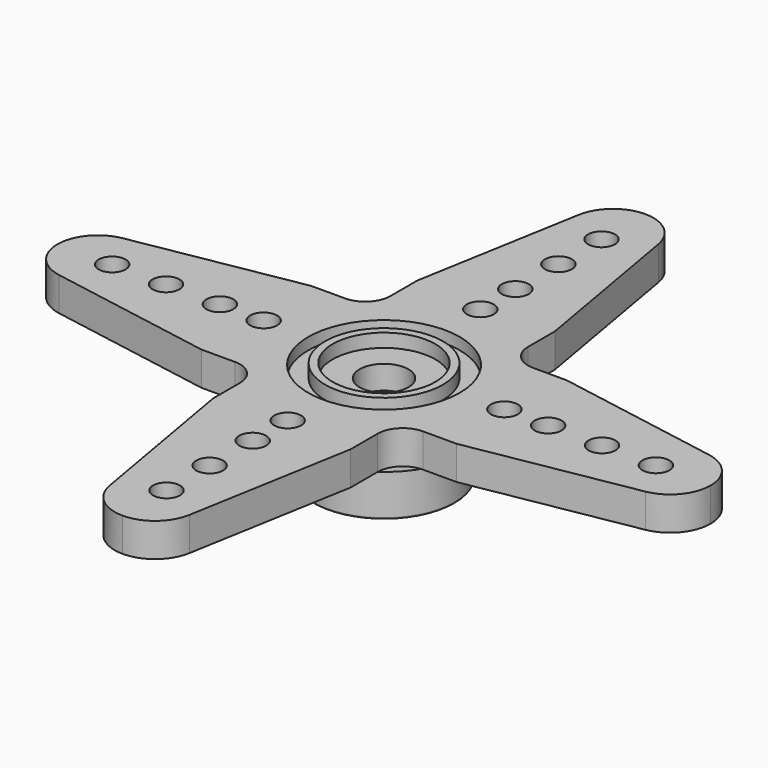
from build123d import *

# Parameters (mm, degrees)
PAD_DEPTH          = 2
SKETCH001_R        = 4.5
POCKET_DEPTH       = 0.7
SKETCH002_R        = 3.5
PAD001_DEPTH       = 0.8
SKETCH003_R        = 3.05
POCKET001_DEPTH    = 0.8
SKETCH004_R        = 5
PAD002_DEPTH       = 1
SKETCH005_R        = 4.2
PAD003_DEPTH       = 2.9
SKETCH006_R        = 2.95
POCKET002_DEPTH    = 3.8
SKETCH007_R        = 1.45
POCKET003_DEPTH    = 5.201
SKETCH008_R        = 0.8
POCKET004_DEPTH    = 116.298101
POLARPATTERN_COUNT = 4
CHAMFER_SIZE       = 0.4
CHAMFER001_SIZE    = 0.3
FILLET_R           = 0.1


with BuildPart() as horn_top_left_quarter:
    # Sketch → Pad (new body)
    with BuildSketch(Plane.XY):
        with BuildLine():
            Line((0, 0), (0, 19.4))
            ThreePointArc((0, 19.4), (-1.543669, 18.837685), (-2.363981, 17.414237))
            Line((-4.086144, 7.586132), (-2.363981, 17.414237))
            Line((-4.086144, 5.586132), (-4.086144, 7.586132))
            ThreePointArc((-5.586136, 4.086144), (-4.525485, 4.525482), (-4.086144, 5.586132))
            Line((-5.586136, 4.086144), (-7.586136, 4.086144))
            Line((-17.414238, 2.363981), (-7.586136, 4.086144))
            ThreePointArc((-17.414238, 2.363981), (-18.837685, 1.543669), (-19.4, 0))
            Line((-19.4, 0), (0, 0))
        make_face()
    extrude(amount=PAD_DEPTH)


with BuildPart() as upper_half_horn:
    # Part__Mirroring: instance of horn-top-left-quarter
    add(horn_top_left_quarter.part.mirror(Plane(origin=(0, 0, 0), x_dir=(0, -1, 0), z_dir=(1, 0, 0))))

    # Fusion: union horn-top-left-quarter
    add(horn_top_left_quarter.part)


with BuildPart() as horn_final:
    # Part__Mirroring001: instance of Upper-half-horn
    add(upper_half_horn.part.mirror(Plane(origin=(0, 0, 0), x_dir=(1, 0, 0), z_dir=(0, 1, 0))))

    # Fusion001: union Upper-half-horn
    add(upper_half_horn.part)

    # Sketch001 (on Face24 of Fusion001) → Pocket (cut)
    with BuildSketch(Plane.XY.offset(2)):
        Circle(SKETCH001_R)
    extrude(amount=-POCKET_DEPTH, mode=Mode.SUBTRACT)

    # Sketch002 (on Face28 of Pocket) → Pad001 (new body)
    with BuildSketch(Plane.XY.offset(1.3)):
        Circle(SKETCH002_R)
    extrude(amount=PAD001_DEPTH)

    # Sketch003 (on Face30 of Pad001) → Pocket001 (cut)
    with BuildSketch(Plane.XY.offset(2.1)):
        Circle(SKETCH003_R)
    extrude(amount=-POCKET001_DEPTH, mode=Mode.SUBTRACT)

    # Sketch004 (on Face4 of Pocket001) → Pad002 (new body)
    with BuildSketch(Plane(origin=(0, 0, 0), x_dir=(1, 0, 0), z_dir=(0, 0, -1))):
        Circle(SKETCH004_R)
    extrude(amount=PAD002_DEPTH)

    # Sketch005 (on Face29 of Pad002) → Pad003 (new body)
    with BuildSketch(Plane(origin=(0, 0, -1), x_dir=(1, 0, 0), z_dir=(0, 0, -1))):
        Circle(SKETCH005_R)
    extrude(amount=PAD003_DEPTH)

    # Sketch006 (on Face33 of Pad003) → Pocket002 (cut)
    with BuildSketch(Plane(origin=(0, 0, -3.9), x_dir=(1, 0, 0), z_dir=(0, 0, -1))):
        Circle(SKETCH006_R)
    extrude(amount=-POCKET002_DEPTH, mode=Mode.SUBTRACT)

    # Sketch007 (on Face38 of Pocket002) → Pocket003 (cut, through all)
    with BuildSketch(Plane.XY.offset(1.3)):
        Circle(SKETCH007_R)
    extrude(amount=-POCKET003_DEPTH, mode=Mode.SUBTRACT)

    # Sketch008 (on Face5 of Pocket003) → Pocket004 (cut, through all)
    with BuildSketch(Plane.XY.offset(2)):
        with Locations((0, 16.15)):
            Circle(SKETCH008_R)
        with Locations((0, 12.95)):
            Circle(SKETCH008_R)
        with Locations((0, 9.75)):
            Circle(SKETCH008_R)
        with Locations((0, 7.15)):
            Circle(SKETCH008_R)
    pocket004 = extrude(amount=-POCKET004_DEPTH, mode=Mode.SUBTRACT)

    # PolarPattern: Pocket004 ×4 about axis
    polarpattern_axis = Axis((0, 0, 2), (0, 0, 1))
    for i in range(1, POLARPATTERN_COUNT):
        add(pocket004.rotate(polarpattern_axis, i * 360 / POLARPATTERN_COUNT), mode=Mode.SUBTRACT)

    # Chamfer
    chamfer_edges = [horn_final.edges().sort_by_distance(p)[0] for p in [
        (-5, 0, 0),
    ]]
    chamfer(chamfer_edges, length=CHAMFER_SIZE)

    # Chamfer001
    chamfer001_edges = [horn_final.edges().sort_by_distance(p)[0] for p in [
        (-4.2, 0, -1),
    ]]
    chamfer(chamfer001_edges, length=CHAMFER001_SIZE)

    # Fillet
    fillet_edges = [horn_final.edges().sort_by_distance(p)[0] for p in [
        (-4.2, 0, -3.9),
    ]]
    fillet(fillet_edges, radius=FILLET_R)


solid = horn_final.part
